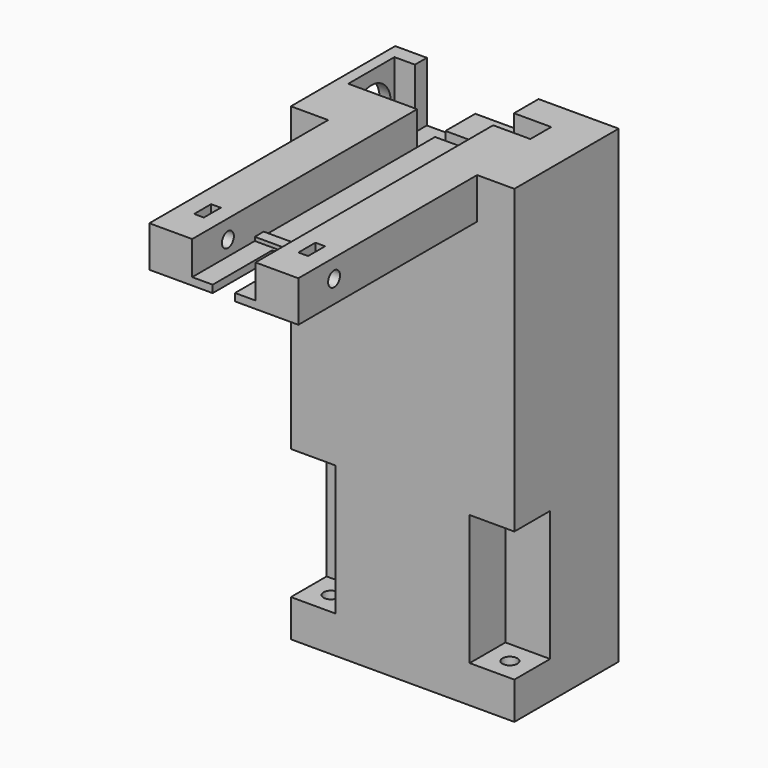
from build123d import *

# Parameters (mm, degrees)
F0_W      = 60
F0_H      = 35
F0_R      = 2
F1_DEPTH  = 10
F3_DEPTH  = 35
F4_W      = 60
F4_H      = 35
F5_DEPTH  = 70
F7_DEPTH  = 2
F9_DEPTH  = 1
F11_DEPTH = 8
F12_R     = 2
F13_DEPTH = 45
F14_W     = 2.6
F14_H     = 5.7
F15_DEPTH = 8.7
F18_DEPTH = 16
F19_R     = 6.5
F20_DEPTH = 5
F22_W     = 3
F22_H     = 7
F23_DEPTH = 12
F24_DEPTH = 5


with BuildPart() as f1:
    # F0 (on Top) → F1 (new body)
    with BuildSketch(Plane.XY):
        Rectangle(F0_W, F0_H)
        with Locations((-24, -11.5)):
            Circle(F0_R, mode=Mode.SUBTRACT)
        with Locations((24, -11.5)):
            Circle(F0_R, mode=Mode.SUBTRACT)
        with Locations((0, 11.5)):
            Circle(F0_R, mode=Mode.SUBTRACT)
    extrude(amount=F1_DEPTH)

    # F2 (on face) → F3 (join)
    with BuildSketch(Plane.XY.offset(10)):
        Polygon((-10, 17.5), (-30, 17.5), (-30, -5.5), (-18, -5.5), (-18, -17.5), (18, -17.5), (18, -5.5), (30, -5.5), (30, 17.5), (10, 17.5), (10, 5.5), (-10, 5.5), align=None)
    extrude(amount=F3_DEPTH)

    # F4 (on face) → F5 (join)
    with BuildSketch(Plane.XY.offset(45)):
        Rectangle(F4_W, F4_H)
    extrude(amount=F5_DEPTH)

    # F6 (on face) → F7 (join)
    with BuildSketch(Plane.XY.offset(115)):
        Polygon((30, 17.5), (-30, 17.5), (-30, -17.5), (-20, -17.5), (-20, -77.5), (-3, -77.5), (-3, -57.5), (3, -57.5), (3, -77.5), (20, -77.5), (20, -17.5), (30, -17.5), align=None)
    extrude(amount=F7_DEPTH)

    # F8 (on face) → F9 (join)
    with BuildSketch(Plane.XY.offset(117)):
        Polygon((-30, 17.5), (-30, -17.5), (-20, -17.5), (-20, -77.5), (-8.5, -77.5), (-8.5, -56.5), (8.5, -56.5), (8.5, -77.5), (20, -77.5), (20, -17.5), (30, -17.5), (30, 17.5), (8.5, 17.5), (8.5, -53.5), (-8.5, -53.5), (-8.5, 17.5), align=None)
    extrude(amount=F9_DEPTH)

    # F10 (on face) → F11 (join)
    with BuildSketch(Plane.XY.offset(118)):
        Polygon((-20, -77.5), (-8.5, -77.5), (-8.5, 17.5), (-30, 17.5), (-30, -17.5), (-20, -17.5), align=None)
        Polygon((8.5, -77.5), (20, -77.5), (20, -17.5), (30, -17.5), (30, 17.5), (8.5, 17.5), align=None)
    extrude(amount=F11_DEPTH)

    # F12 (on face) → F13 (cut)
    with BuildSketch(Plane.YZ.offset(20)):
        with Locations((-65.5104211917, 121)):
            Circle(F12_R)
    extrude(amount=-F13_DEPTH, mode=Mode.SUBTRACT)

    # F14 (on face) → F15 (cut)
    with BuildSketch(Plane.XY.offset(126)):
        with Locations((14, -65.5)):
            Rectangle(F14_W, F14_H)
        with Locations((-14, -65.5)):
            Rectangle(F14_W, F14_H)
    extrude(amount=-F15_DEPTH, mode=Mode.SUBTRACT)

    # F17 (on offset) → F18 (cut)
    with BuildSketch(Plane.XY.offset(110)):
        Polygon((-21.5, 13.5), (-27, 13.5), (-27, -2), (-8.5, -2), (-8.5, 4), (8.5, 4), (8.5, 2.25), (15.5, 2.25), (15.5, 9.25), (8.5, 9.25), (8.5, 7.5), (-8.5, 7.5), (-8.5, 13.5), (-8.5, 17.5), (-21.5, 17.5), align=None)
    extrude(amount=F18_DEPTH, mode=Mode.SUBTRACT)

    # F19 (on face) → F20 (cut)
    with BuildSketch(Plane.YZ.offset(-27)):
        with Locations((5.75, 116)):
            Circle(F19_R)
    extrude(amount=-F20_DEPTH, mode=Mode.SUBTRACT)

    # F22 (on offset) → F23 (cut)
    with BuildSketch(Plane.XY.offset(114)):
        with Locations((17, 5.75)):
            Rectangle(F22_W, F22_H)
    extrude(amount=F23_DEPTH, mode=Mode.SUBTRACT)

    # F22 (on offset) → F24 (join)
    with BuildSketch(Plane.XY.offset(114)):
        with Locations((17, 5.75)):
            Rectangle(F22_W, F22_H)
    extrude(amount=F24_DEPTH)


solid = f1.part
